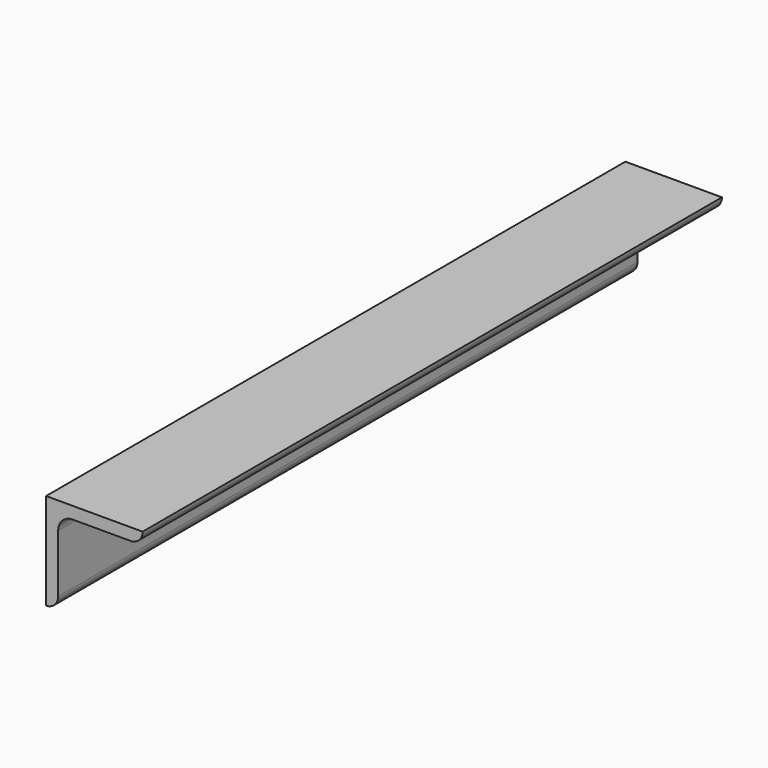
from build123d import *

# Parameters (mm, degrees)
F1_DEPTH = 300


with BuildPart() as f1:
    # F0 (on Front) → F1 (new body)
    with BuildSketch(Plane.XZ):
        with BuildLine():
            Line((0, 40), (0, 0.000283))
            ThreePointArc((0, 0.000283), (3.535534, 1.464749), (5, 5.000283))
            Line((5, 5.000283), (5, 29))
            ThreePointArc((5, 29), (6.757359, 33.242641), (11, 35))
            Line((11, 35), (35, 35))
            ThreePointArc((35, 35), (38.535534, 36.464466), (40, 40))
            Line((40, 40), (0, 40))
        make_face()
    extrude(amount=-F1_DEPTH)


solid = f1.part
